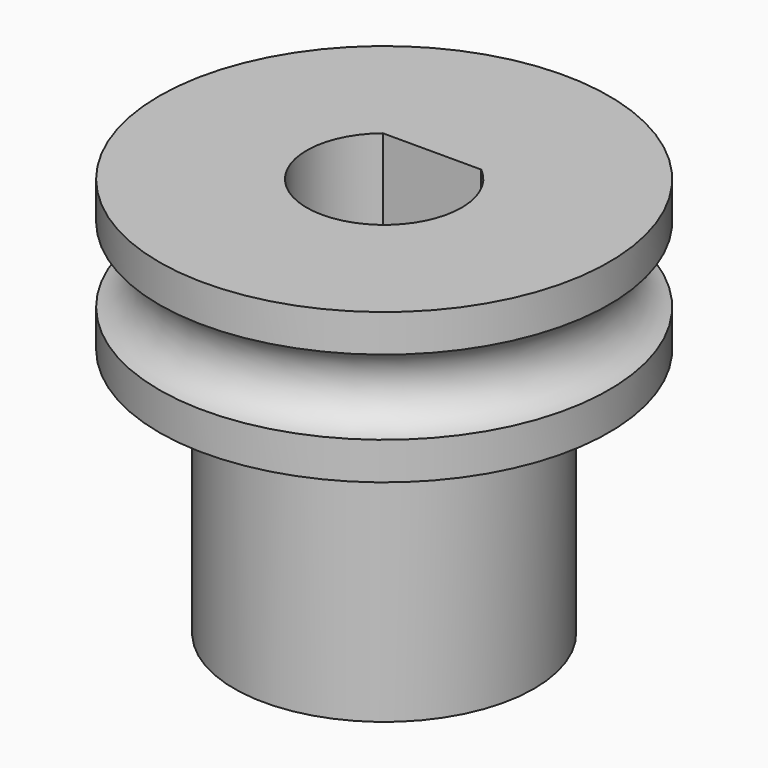
from build123d import *

# Parameters (mm, degrees)
F4_DEPTH = 10
F5_DEPTH = 16.001
F7_D     = 2.2
F7_DEPTH = 4


with BuildPart() as f1:
    # F0 (on Front) → F1 (revolve)
    with BuildSketch(Plane.XZ):
        with BuildLine():
            Line((-9, 0), (0, 0))
            Line((0, 0), (0, 6))
            Line((0, 6), (-9, 6))
            Line((-9, 6), (-9, 4.5))
            ThreePointArc((-9, 4.5), (-7.8, 3), (-9, 1.5))
            Line((-9, 1.5), (-9, 0))
        make_face()
    revolve(axis=Axis((0, 0, 3), (0, 0, 1)))

    # F3 (on Top) → F4 (join)
    with BuildSketch(Plane.XY):
        with BuildLine():
            Line((3.0351, 5.175729), (-3.0351, 5.175729))
            ThreePointArc((-3.0351, 5.175729), (0, -6), (3.0351, 5.175729))
        make_face()
    extrude(amount=-F4_DEPTH)

    # F2 (on face) → F5 (cut, through all)
    with BuildSketch(Plane.XY.offset(6)):
        with BuildLine():
            Line((1.967733, 2.395418), (-1.967733, 2.395418))
            ThreePointArc((-1.967733, 2.395418), (0, -3.1), (1.967733, 2.395418))
        make_face()
    extrude(amount=-F5_DEPTH, mode=Mode.SUBTRACT)

    # F7
    with Locations(Plane(origin=(0, 5.175729, 0), x_dir=(-1, 0, 0), z_dir=(0, 1, 0))):
        with Locations((0, -5)):
            Hole(F7_D / 2, depth=F7_DEPTH)


solid = f1.part
